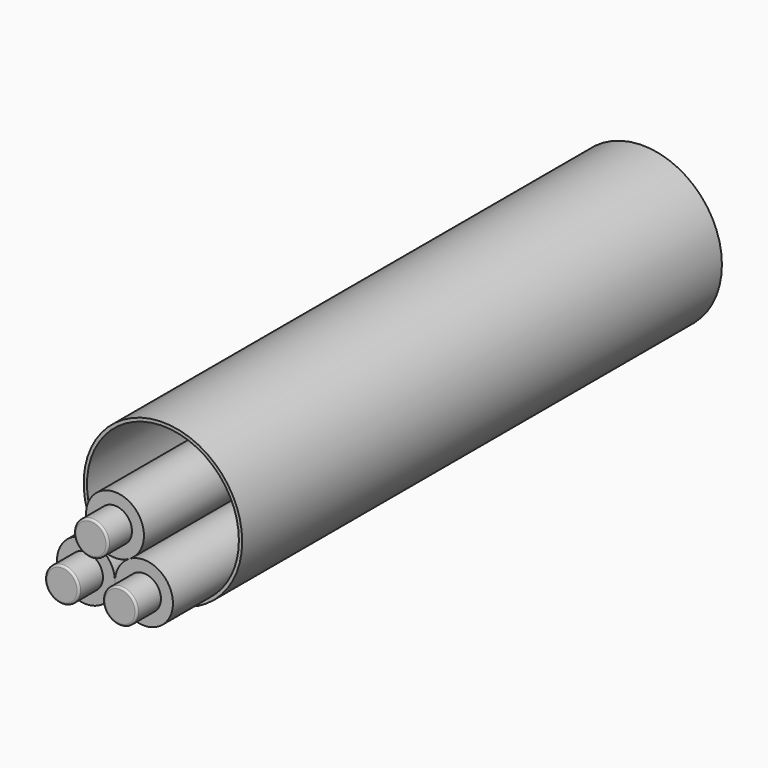
from build123d import *

# Parameters (mm, degrees)
F0_R          = 39.6551273515
F1_DEPTH      = 300
F0_R_2        = 8.5
F2_DEPTH      = 300
F2_DEPTH_BACK = 30
F3_DEPTH      = 300
F3_DEPTH_BACK = 45
F4_R          = 1
F4_2_R        = 1
F4_3_R        = 1


with BuildPart() as f1:
    # F0 (on Front) → F1 (new body)
    with BuildSketch(Plane.XZ):
        with Locations((-58.5893206298, 37.1114652178)):
            Circle(F0_R)
        with BuildLine():
            ThreePointArc((-82.0361289194, 7.2074992429), (-75.2179297869, 71.2800086094), (-20.5893206298, 37.1114652178))
            ThreePointArc((-20.5893206298, 37.1114652178), (-24.4207772637, 20.4828560086), (-35.1425124316, 7.2074991713))
            ThreePointArc((-35.1425124316, 7.2074991713), (-58.5893206879, -0.8885347822), (-82.0361289194, 7.2074992429))
        make_face(mode=Mode.SUBTRACT)
    extrude(amount=-F1_DEPTH)



with BuildPart() as f2:
    # F0 (on Front) → F2 (new body, two sides)
    with BuildSketch(Plane.XZ) as f2_sk:
        with BuildLine():
            ThreePointArc((-44.0893206298, 43.7329599187), (-65.8393203648, 56.2903284266), (-65.83932116, 31.1755918699))
            ThreePointArc((-65.83932116, 31.1755918699), (-58.5893212438, 29.2329599187), (-51.3393211631, 31.1755912559))
            ThreePointArc((-51.3393211631, 31.1755912559), (-46.0319524289, 36.482959652), (-44.0893206298, 43.7329599187))
        make_face()
        with Locations((-58.5893206298, 43.7329599187)):
            Circle(F0_R_2, mode=Mode.SUBTRACT)
    extrude(amount=-F2_DEPTH)
    extrude(f2_sk.sketch, amount=F2_DEPTH_BACK)


with BuildPart() as f1_1:
    add(f1.part)

    add(f2.part)  # F2#2 merges F2
    # F0 (on Front) → F2, piece 2 (join, two sides)
    with BuildSketch(Plane.XZ) as f2_2_sk:
        with BuildLine():
            ThreePointArc((-65.83932116, 31.1755918699), (-85.1033605868, 26.7368957552), (-82.0361289194, 7.2074992429))
            ThreePointArc((-82.0361289194, 7.2074992429), (-66.7441933734, 5.5802264265), (-58.5893206298, 18.6182232089))
            ThreePointArc((-58.5893206298, 18.6182232089), (-60.531952428, 25.868223474), (-65.83932116, 31.1755918699))
        make_face()
        with Locations((-73.0893206298, 18.6182232089)):
            Circle(F0_R_2, mode=Mode.SUBTRACT)
        with BuildLine():
            ThreePointArc((-58.5893206298, 18.6182232089), (-50.4344479385, 5.5802264519), (-35.1425124316, 7.2074991713))
            ThreePointArc((-35.1425124316, 7.2074991713), (-31.0513238728, 12.2730959003), (-29.5893206298, 18.6182232089))
            ThreePointArc((-29.5893206298, 18.6182232089), (-36.8393208965, 31.1755917178), (-51.3393211631, 31.1755912559))
            ThreePointArc((-51.3393211631, 31.1755912559), (-56.6466891387, 25.8682229423), (-58.5893206298, 18.6182232089))
        make_face()
        with Locations((-44.0893206298, 18.6182232089)):
            Circle(F0_R_2, mode=Mode.SUBTRACT)
    extrude(amount=-F2_DEPTH)
    extrude(f2_2_sk.sketch, amount=F2_DEPTH_BACK)


with BuildPart() as f3:
    # F0 (on Front) → F3 (new body, two sides)
    with BuildSketch(Plane.XZ) as f3_sk:
        with Locations((-58.5893206298, 43.7329599187)):
            Circle(F0_R_2)
    extrude(amount=-F3_DEPTH)
    extrude(f3_sk.sketch, amount=F3_DEPTH_BACK)

    # F4
    f4_edges = [f3.edges().sort_by_distance(p)[0] for p in [
        (-67.089321, -45, 43.73296),
    ]]
    fillet(f4_edges, radius=F4_R)


with BuildPart() as f3b:
    # F0 (on Front) → F3, piece 2 (new body, two sides)
    with BuildSketch(Plane.XZ) as f3_2_sk:
        with Locations((-73.0893206298, 18.6182232089)):
            Circle(F0_R_2)
    extrude(amount=-F3_DEPTH)
    extrude(f3_2_sk.sketch, amount=F3_DEPTH_BACK)

    # F4#2
    f4_2_edges = [f3b.edges().sort_by_distance(p)[0] for p in [
        (-81.589321, -45, 18.618223),
    ]]
    fillet(f4_2_edges, radius=F4_2_R)


with BuildPart() as f3c:
    # F0 (on Front) → F3, piece 3 (new body, two sides)
    with BuildSketch(Plane.XZ) as f3_3_sk:
        with Locations((-44.0893206298, 18.6182232089)):
            Circle(F0_R_2)
    extrude(amount=-F3_DEPTH)
    extrude(f3_3_sk.sketch, amount=F3_DEPTH_BACK)

    # F4#3
    f4_3_edges = [f3c.edges().sort_by_distance(p)[0] for p in [
        (-52.589321, -45, 18.618223),
    ]]
    fillet(f4_3_edges, radius=F4_3_R)


solid = Compound([f1_1.part, f3.part, f3b.part, f3c.part])
